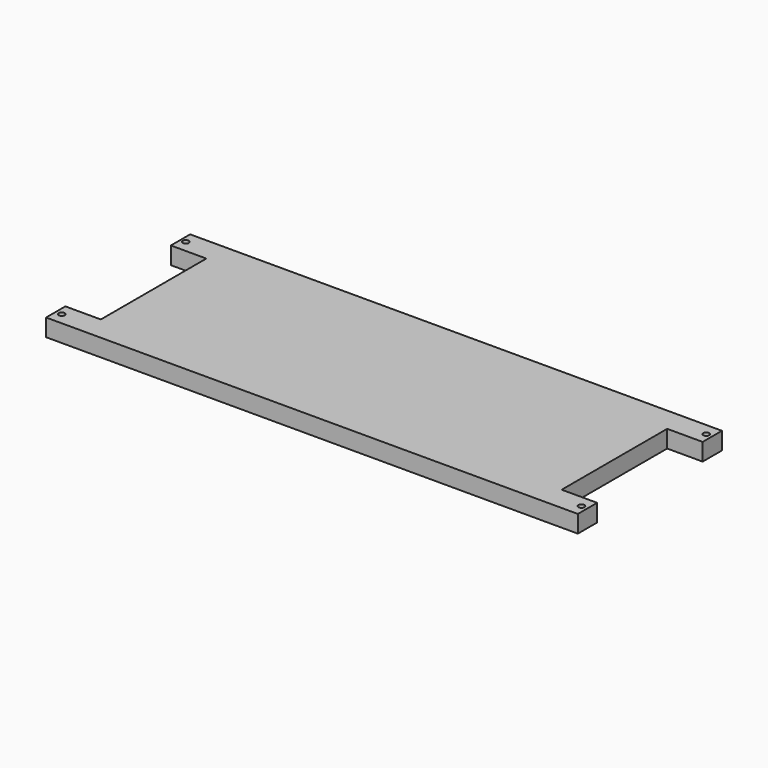
from build123d import *

# Parameters (mm, degrees)
F1_DEPTH = 4.9
F2_R     = 0.85
F3_DEPTH = 4.901


with BuildPart() as f1:
    # F0 (on Top) → F1 (new body)
    with BuildSketch(Plane.XY):
        Polygon((-75, -25.4), (75, -25.4), (75, -18.6), (65, -18.6), (65, 18.6), (75, 18.6), (75, 25.4), (-75, 25.4), (-75, 18.6), (-65, 18.6), (-65, -18.6), (-75, -18.6), align=None)
    extrude(amount=F1_DEPTH)

    # F2 (on face) → F3 (cut, through all)
    with BuildSketch(Plane.XY.offset(4.9)):
        with Locations((-73.5, 22)):
            Circle(F2_R)
        with Locations((-73.3, -22)):
            Circle(F2_R)
        with Locations((73.3, 22)):
            Circle(F2_R)
        with Locations((73.3, -22)):
            Circle(F2_R)
    extrude(amount=-F3_DEPTH, mode=Mode.SUBTRACT)


solid = f1.part
